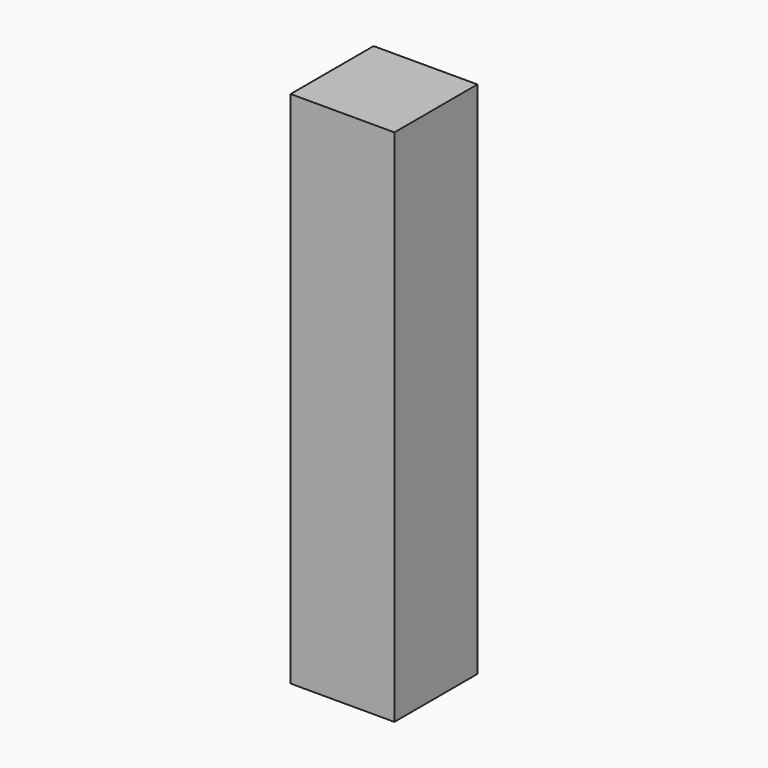
from build123d import *

# Parameters (mm, degrees)
F1_DEPTH  = 63.5
F1_FACE_W = 25.4
F1_FACE_H = 25.4
F2_DEPTH  = 63.5


with BuildPart() as f1:
    # F0 (on Top) → F1 (new body)
    with BuildSketch(Plane.XY):
        Polygon((-38.181937, 30.971613), (-38.181937, 43.671613), (-63.581937, 43.671613), (-63.581937, 18.271613), (-38.181937, 18.271613), align=None)
    extrude(amount=F1_DEPTH)

    # F1_face (on face) → F2 (join)
    with BuildSketch(Plane(origin=(-50.881937, 30.971613, 0), x_dir=(1, 0, 0), z_dir=(0, 0, -1))):
        Rectangle(F1_FACE_W, F1_FACE_H)
    extrude(amount=F2_DEPTH)


solid = f1.part
